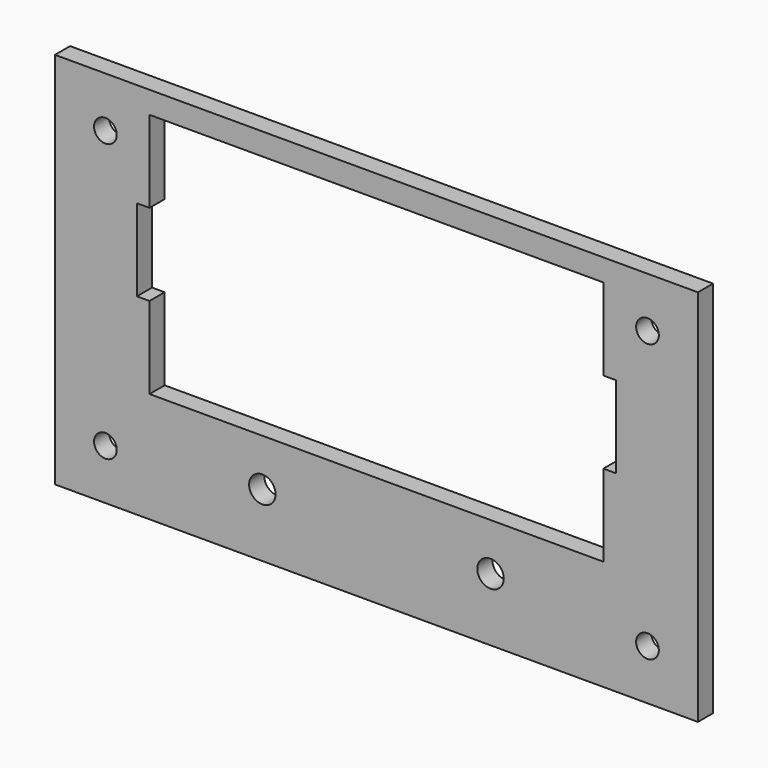
from build123d import *

# Parameters (mm, degrees)
CYLINDER001_R     = 2.1
CYLINDER001_DEPTH = 10
CYLINDER_R        = 2.1
CYLINDER_DEPTH    = 10
EXTRUDE_DEPTH     = 10
CYLINDER002_R     = 1.8
CYLINDER002_DEPTH = 200
ARRAY_X_COUNT     = 2
ARRAY_X_PITCH     = 86
ARRAY_Z_COUNT     = 2
ARRAY_Z_PITCH     = 44
BOX001_W          = 102
BOX001_H          = 3
BOX001_DEPTH      = 60


with BuildPart() as hole_minus:
    # Cylinder001 → Cylinder001 (new body)
    with BuildSketch(Plane(origin=(18.1, 10, 10), x_dir=(1, 0, 0), z_dir=(0, -1, 0))):
        Circle(CYLINDER001_R)
    extrude(amount=CYLINDER001_DEPTH)


with BuildPart() as hole_plus:
    # Cylinder → Cylinder (new body)
    with BuildSketch(Plane(origin=(-18.1, 10, 10), x_dir=(1, 0, 0), z_dir=(0, -1, 0))):
        Circle(CYLINDER_R)
    extrude(amount=CYLINDER_DEPTH)


with BuildPart() as display_hole_extrude:
    # Sketch → Extrude (new body)
    with BuildSketch(Plane.XZ):
        Polygon((-36, 19.5), (36, 19.5), (36, 6.5), (38, 6.5), (38, -6.5), (36, -6.5), (36, -19.5), (-36, -19.5), (-36, -6.5), (-38, -6.5), (-38, 6.5), (-36, 6.5), align=None)
    extrude(amount=-EXTRUDE_DEPTH)


with BuildPart() as display_hole_extrude_1:
    # Extrude placement: moved
    add(display_hole_extrude.part.moved(Location((0, 0, 37))))


with BuildPart() as hole_fusion:
    # Cylinder002 → Cylinder002 (new body)
    with BuildSketch(Plane(origin=(-43, 200, 8), x_dir=(1, 0, 0), z_dir=(0, -1, 0))):
        Circle(CYLINDER002_R)
    extrude(amount=CYLINDER002_DEPTH)

    # Array X: hole fusion ×2


with BuildPart() as hole_fusion_1:
    add(hole_fusion.part)
    with Locations(*[(i * ARRAY_X_PITCH, 0, 0) for i in range(1, ARRAY_X_COUNT)]):
        add(hole_fusion.part)

    # Array Z: hole fusion ×2


with BuildPart() as hole_fusion_2:
    add(hole_fusion_1.part)
    with Locations(*[(0, 0, i * ARRAY_Z_PITCH) for i in range(1, ARRAY_Z_COUNT)]):
        add(hole_fusion_1.part)

    # Fusion: union hole_minus, hole_plus, display hole extrude
    add(hole_minus.part)
    add(hole_plus.part)
    add(display_hole_extrude_1.part)


with BuildPart() as front_panel_cut:
    # Box001 → Box001 (new body)
    with BuildSketch(Plane(origin=(-51, 0, 0), x_dir=(1, 0, 0), z_dir=(0, 0, 1))):
        with Locations((51, 1.5)):
            Rectangle(BOX001_W, BOX001_H)
    extrude(amount=BOX001_DEPTH)

    # Cut: cut hole fusion
    add(hole_fusion_2.part, mode=Mode.SUBTRACT)


solid = front_panel_cut.part
